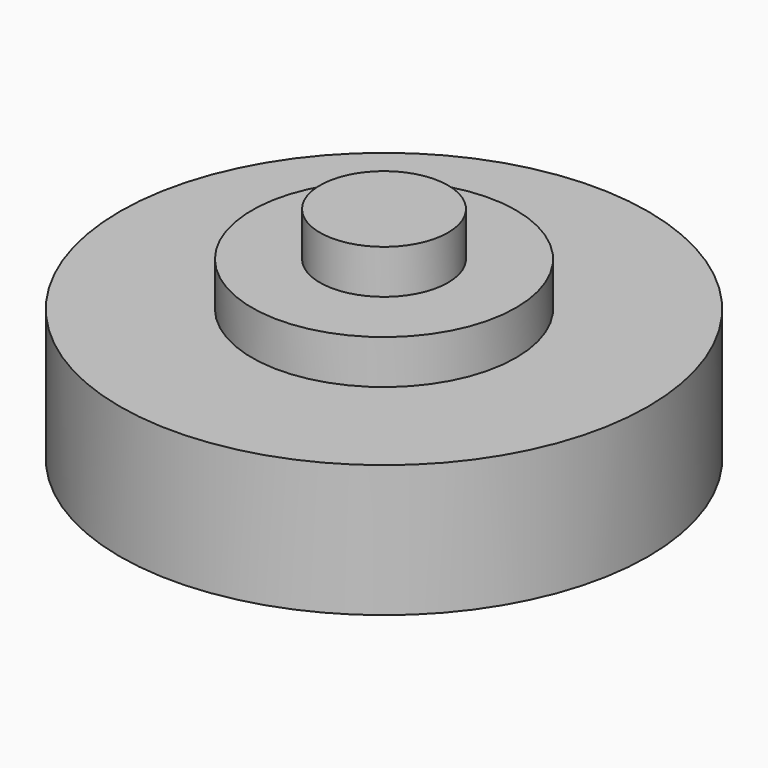
from build123d import *

# Parameters (mm, degrees)
F0_R     = 60
F1_DEPTH = 30
F2_R     = 30
F3_DEPTH = 10
F4_R     = 14.550501
F5_DEPTH = 10


with BuildPart() as f1:
    # F0 (on Top) → F1 (new body)
    with BuildSketch(Plane.XY):
        Circle(F0_R)
    extrude(amount=F1_DEPTH)

    # F2 (on face) → F3 (join)
    with BuildSketch(Plane.XY.offset(30)):
        Circle(F2_R)
    extrude(amount=F3_DEPTH)

    # F4 (on face) → F5 (join)
    with BuildSketch(Plane.XY.offset(40)):
        Circle(F4_R)
        Circle(F4_R)
    extrude(amount=F5_DEPTH)


solid = f1.part
